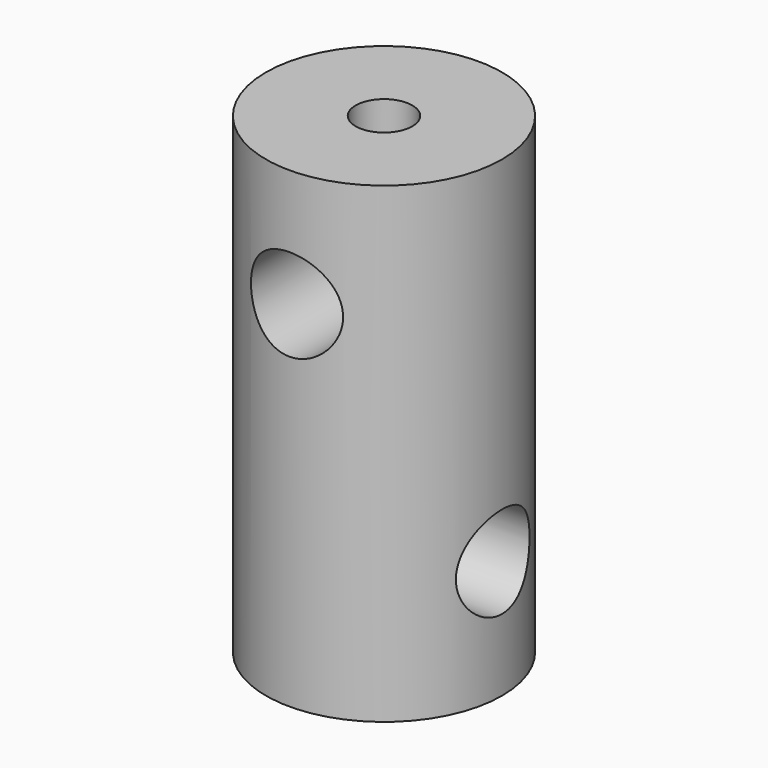
from build123d import *

# Parameters (mm, degrees)
F0_R          = 25
F1_DEPTH      = 100
F2_R          = 9.75
F3_DEPTH      = 25.001
F3_DEPTH_BACK = 25
F4_R          = 9.75
F5_DEPTH      = 25.0010001
F5_DEPTH_BACK = 25
F6_R          = 6
F7_DEPTH      = 25
F8_R          = 6
F9_DEPTH      = 25


with BuildPart() as f1:
    # F0 (on Top) → F1 (new body)
    with BuildSketch(Plane.XY):
        Circle(F0_R)
    extrude(amount=F1_DEPTH)

    # F2 (on Right) → F3 (cut, two sides)
    with BuildSketch(Plane.YZ) as f3_sk:
        with Locations((0, 25)):
            Circle(F2_R)
    extrude(amount=F3_DEPTH, mode=Mode.SUBTRACT)
    extrude(f3_sk.sketch, amount=-F3_DEPTH_BACK, mode=Mode.SUBTRACT)

    # F4 (on Front) → F5 (cut, two sides)
    with BuildSketch(Plane.XZ) as f5_sk:
        with Locations((0, 75)):
            Circle(F4_R)
    extrude(amount=-F5_DEPTH, mode=Mode.SUBTRACT)
    extrude(f5_sk.sketch, amount=F5_DEPTH_BACK, mode=Mode.SUBTRACT)

    # F6 (on face) → F7 (cut)
    with BuildSketch(Plane.XY.offset(100)):
        Circle(F6_R)
    extrude(amount=-F7_DEPTH, mode=Mode.SUBTRACT)

    # F8 (on face) → F9 (cut)
    with BuildSketch(Plane(origin=(0, 0, 0), x_dir=(1, 0, 0), z_dir=(0, 0, -1))):
        Circle(F8_R)
    extrude(amount=-F9_DEPTH, mode=Mode.SUBTRACT)


solid = f1.part
